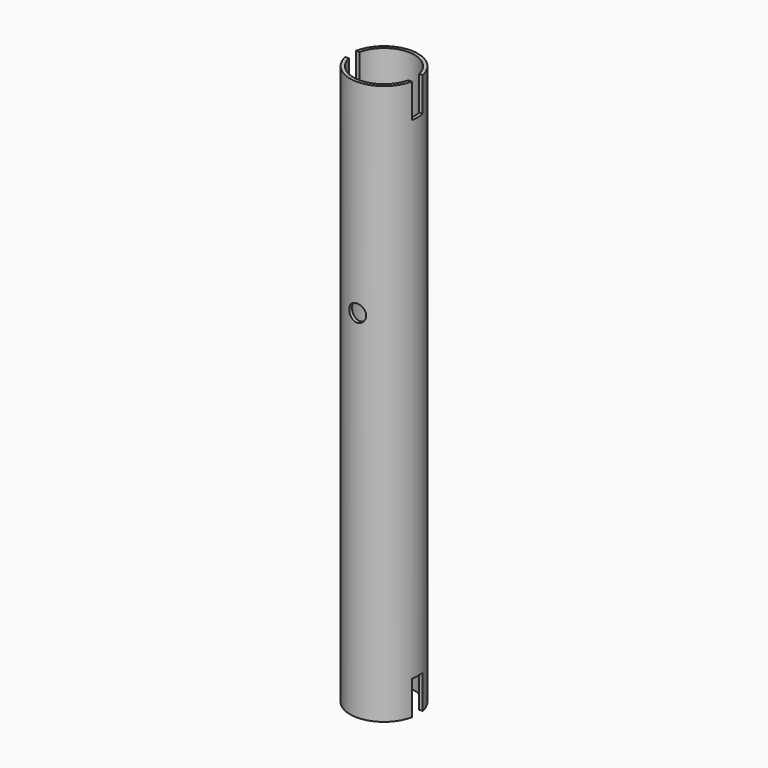
from build123d import *

# Parameters (mm, degrees)
F0_R     = 10
F0_R_2   = 9
F1_DEPTH = 165
F3_DEPTH = 10
F5_DEPTH = 25
F7_DEPTH = 10
F8_R     = 2.5
F9_DEPTH = 25


with BuildPart() as f1:
    # F0 (on Top) → F1 (new body)
    with BuildSketch(Plane.XY):
        Circle(F0_R)
        Circle(F0_R_2, mode=Mode.SUBTRACT)
    extrude(amount=F1_DEPTH)

    # F2 (on Top) → F3 (cut)
    with BuildSketch(Plane.XY):
        with BuildLine():
            ThreePointArc((9.7979589711, -2), (9.9493615301, -1.0050896201), (10, 0))
            ThreePointArc((10, 0), (9.9493615301, 1.0050896201), (9.7979589711, 2))
            Line((9.7979589711, 2), (-9.7979589711, 2))
            ThreePointArc((-9.7979589711, 2), (-10, 0), (-9.7979589711, -2))
            Line((-9.7979589711, -2), (9.7979589711, -2))
        make_face()
    extrude(amount=F3_DEPTH, mode=Mode.SUBTRACT)

    # F4 (on Front) → F5 (cut)
    with BuildSketch(Plane.XZ):
        with BuildLine():
            ThreePointArc((-1.5, 11.5), (0, 10), (1.5, 11.5))
            ThreePointArc((1.5, 11.5), (0, 13), (-1.5, 11.5))
        make_face()
        with BuildLine():
            ThreePointArc((-1.5, 11.5), (0, 13), (1.5, 11.5))
            Line((1.5, 11.5), (1.5, 103.5))
            ThreePointArc((1.5, 103.5), (0, 102), (-1.5, 103.5))
            Line((-1.5, 103.5), (-1.5, 11.5))
        make_face()
        with BuildLine():
            ThreePointArc((-1.5, 103.5), (0, 102), (1.5, 103.5))
            ThreePointArc((1.5, 103.5), (0, 105), (-1.5, 103.5))
        make_face()
    extrude(amount=-F5_DEPTH, mode=Mode.SUBTRACT)

    # F6 (on face) → F7 (cut)
    with BuildSketch(Plane.XY.offset(165)):
        with BuildLine():
            ThreePointArc((10, 0), (9.9493615301, 1.0050896201), (9.7979589711, 2))
            Line((9.7979589711, 2), (8.7749643874, 2))
            ThreePointArc((8.7749643874, 2), (8.9435641521, 1.0063102189), (9, 0))
            ThreePointArc((9, 0), (8.9435641521, -1.0063102189), (8.7749643874, -2))
            Line((8.7749643874, -2), (9.7979589711, -2))
            ThreePointArc((9.7979589711, -2), (9.9493615301, -1.0050896201), (10, 0))
        make_face()
        with BuildLine():
            Line((-8.7749643874, 2), (-9.7979589711, 2))
            ThreePointArc((-9.7979589711, 2), (-10, 0), (-9.7979589711, -2))
            Line((-9.7979589711, -2), (-8.7749643874, -2))
            ThreePointArc((-8.7749643874, -2), (-9, 0), (-8.7749643874, 2))
        make_face()
    extrude(amount=-F7_DEPTH, mode=Mode.SUBTRACT)

    # F8 (on Front) → F9 (cut)
    with BuildSketch(Plane.XZ):
        with Locations((0, 105)):
            Circle(F8_R)
    extrude(amount=F9_DEPTH, mode=Mode.SUBTRACT)


solid = f1.part
